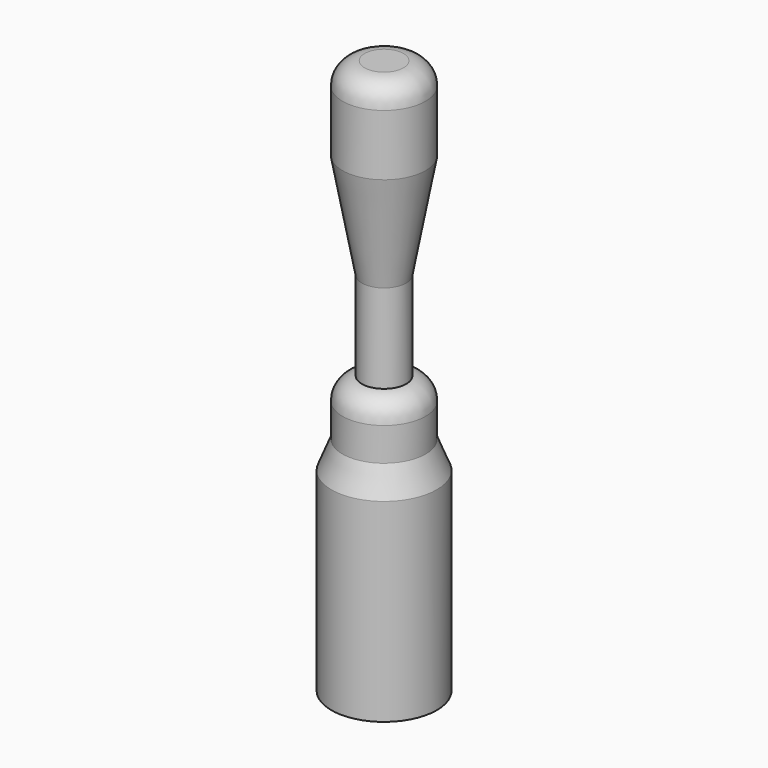
from build123d import *


with BuildPart() as f1:
    # F0 (on Front) → F1 (revolve)
    with BuildSketch(Plane.XZ):
        with BuildLine():
            Line((3.5, 0), (0, 0))
            Line((0, 0), (0, -100))
            Line((0, -100), (9.5, -100))
            Line((9.5, -100), (9.5, -65))
            Line((9.5, -65), (7.5, -60))
            Line((7.5, -60), (7.5, -54))
            ThreePointArc((7.5, -54), (6.328427, -51.171573), (3.5, -50))
            Line((3.5, -50), (4, -50))
            Line((4, -50), (4, -34))
            Line((4, -34), (7.5, -15))
            Line((7.5, -15), (7.5, -4))
            ThreePointArc((7.5, -4), (6.328427, -1.171573), (3.5, 0))
        make_face()
    revolve(axis=Axis((0, 0, -50), (0, 0, 1)))


solid = f1.part
